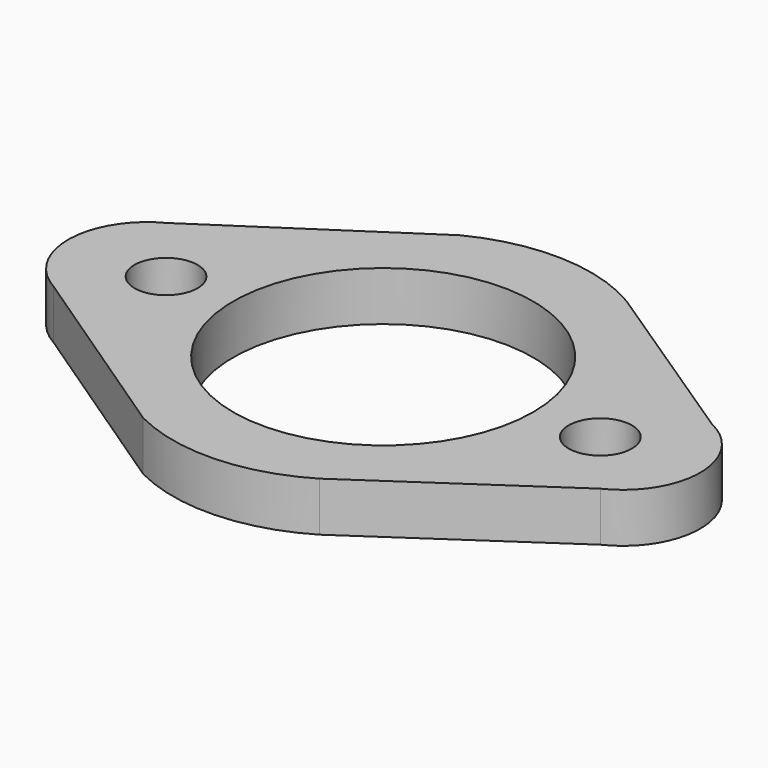
from build123d import *

# Parameters (mm, degrees)
F0_R     = 1.6
F0_R_2   = 7.6
F1_DEPTH = 2.5


with BuildPart() as f1:
    # F0 (on Top) → F1 (new body)
    with BuildSketch(Plane.XY):
        with BuildLine():
            Line((13.768424, 3.614852), (4.544672, 9.73243))
            ThreePointArc((4.544672, 9.73243), (0.239638, 10.994159), (-4.139655, 10.020979))
            Line((-4.139655, 10.020979), (-13.841933, 3.604999))
            ThreePointArc((-13.841933, 3.604999), (-15.999374, 0.117848), (-13.95365, -3.435994))
            Line((-13.95365, -3.435994), (-4.142261, -10.02113))
            ThreePointArc((-4.142261, -10.02113), (0.246146, -10.995714), (4.558502, -9.72626))
            Line((4.558502, -9.72626), (13.774251, -3.453988))
            ThreePointArc((13.774251, -3.453988), (16.00011, 0.082269), (13.768424, 3.614852))
        make_face()
        with BuildLine():
            ThreePointArc((-13.432344, -2.581524), (-14.999402, 0.107772), (-13.337643, 2.739604))
            Line((-13.337643, 2.739604), (-3.636944, 9.15454))
            ThreePointArc((-3.636944, 9.15454), (0.222239, 9.994169), (4.01282, 8.885222))
            Line((4.01282, 8.885222), (13.278848, 2.739604))
            ThreePointArc((13.278848, 2.739604), (15.000111, 0.07904), (13.278848, -2.581524))
            Line((13.278848, -2.581524), (4.020917, -8.882506))
            ThreePointArc((4.020917, -8.882506), (0.227169, -9.995769), (-3.636399, -9.156295))
            Line((-3.636399, -9.156295), (-13.432344, -2.581524))
        make_face(mode=Mode.SUBTRACT)
        with BuildLine():
            Line((-3.636944, 9.15454), (-13.337643, 2.739604))
            ThreePointArc((-13.337643, 2.739604), (-14.999402, 0.107772), (-13.432344, -2.581524))
            Line((-13.432344, -2.581524), (-3.636399, -9.156295))
            ThreePointArc((-3.636399, -9.156295), (0.227169, -9.995769), (4.020917, -8.882506))
            Line((4.020917, -8.882506), (13.278848, -2.581524))
            ThreePointArc((13.278848, -2.581524), (15.000111, 0.07904), (13.278848, 2.739604))
            Line((13.278848, 2.739604), (4.01282, 8.885222))
            ThreePointArc((4.01282, 8.885222), (0.222239, 9.994169), (-3.636944, 9.15454))
        make_face()
        with Locations((-11, 0)):
            Circle(F0_R, mode=Mode.SUBTRACT)
        Circle(F0_R_2, mode=Mode.SUBTRACT)
        with Locations((11, 0)):
            Circle(F0_R, mode=Mode.SUBTRACT)
    extrude(amount=F1_DEPTH)


solid = f1.part
